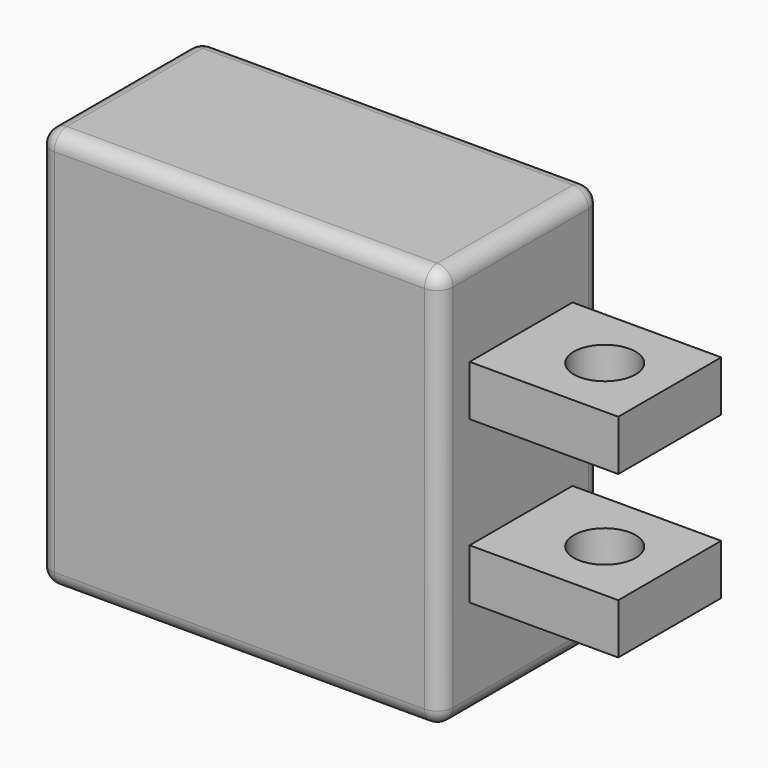
from build123d import *

# Parameters (mm, degrees)
F0_W     = 12.7
F0_H     = 12.7
F1_DEPTH = 6.35
F2_W     = 4.066467
F2_H     = 1.594322
F4_DEPTH = 4.699
F5_R     = 0.976004
F6_DEPTH = 25.4
F7_R     = 0.5


with BuildPart() as f1:
    # F0 (on Front) → F1 (new body)
    with BuildSketch(Plane.XZ):
        with Locations((1.14489, -0.153085)):
            Rectangle(F0_W, F0_H)
    extrude(amount=F1_DEPTH)

    # F2 (on face) → F4 (join)
    with BuildSketch(Plane.YZ.offset(7.49489)):
        with Locations((-3.161712, 2.55219)):
            Rectangle(F2_W, F2_H)
        with Locations((-3.161712, -2.55219)):
            Rectangle(F2_W, F2_H)
    extrude(amount=F4_DEPTH)

    # F5 (on face) → F6 (cut)
    with BuildSketch(Plane.XY.offset(3.349351)):
        with Locations((10.138705, -3.161712)):
            Circle(F5_R)
    extrude(amount=-F6_DEPTH, mode=Mode.SUBTRACT)

    # F7
    f7_edges = [f1.edges().sort_by_distance(p)[0] for p in [
        (1.14489, 0, 6.196915),
        (7.49489, 0, -0.153085),
        (7.49489, -3.175, 6.196915),
        (1.14489, -6.35, 6.196915),
        (-5.20511, -3.175, 6.196915),
        (7.49489, -6.35, -0.153085),
        (7.49489, -3.175, -6.503085),
        (-5.20511, 0, -0.153085),
        (1.14489, 0, -6.503085),
        (-5.20511, -6.35, -0.153085),
        (-5.20511, -3.175, -6.503085),
        (1.14489, -6.35, -6.503085),
    ]]
    fillet(f7_edges, radius=F7_R)


solid = f1.part
